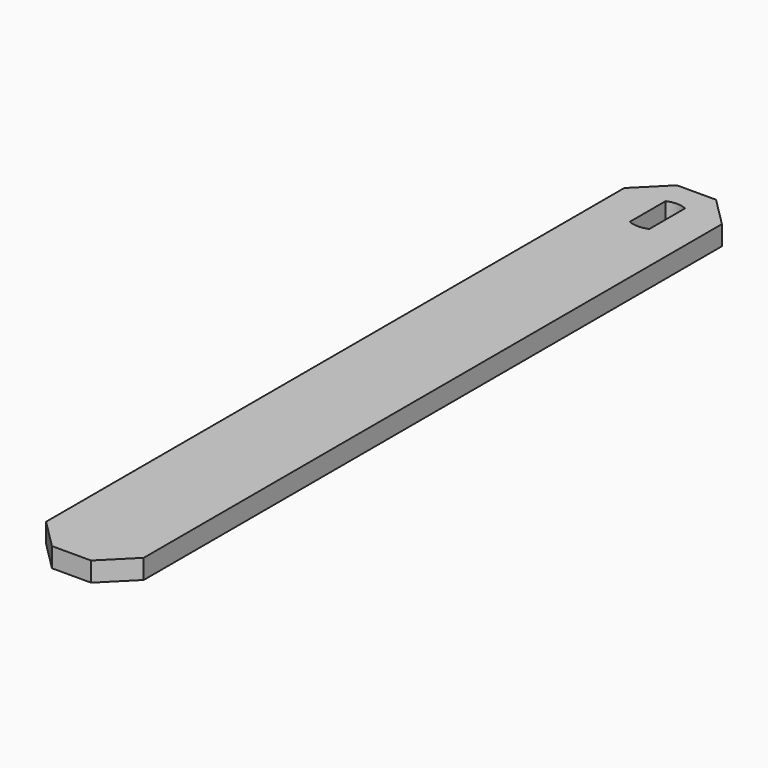
from build123d import *

# Parameters (mm, degrees)
F0_W     = 10
F0_H     = 2
F1_DEPTH = 80
F3_DEPTH = 2
F4_SIZE  = 3


with BuildPart() as f1:
    # F0 (on Front) → F1 (new body)
    with BuildSketch(Plane.XZ):
        Rectangle(F0_W, F0_H)
    extrude(amount=F1_DEPTH)

    # F2 (on face) → F3 (cut, through all)
    with BuildSketch(Plane.XY.offset(1)):
        with BuildLine():
            Line((1, -7.291288), (1, -2.708712))
            ThreePointArc((1, -2.708712), (0, -2.5), (-1, -2.708712))
            Line((-1, -2.708712), (-1, -7.291288))
            ThreePointArc((-1, -7.291288), (0, -7.5), (1, -7.291288))
        make_face()
    extrude(amount=-F3_DEPTH, mode=Mode.SUBTRACT)

    # F4
    f4_edges = [f1.edges().sort_by_distance(p)[0] for p in [
        (-5, 0, 0),
        (5, 0, 0),
        (-5, -80, 0),
        (5, -80, 0),
    ]]
    chamfer(f4_edges, length=F4_SIZE)


solid = f1.part
